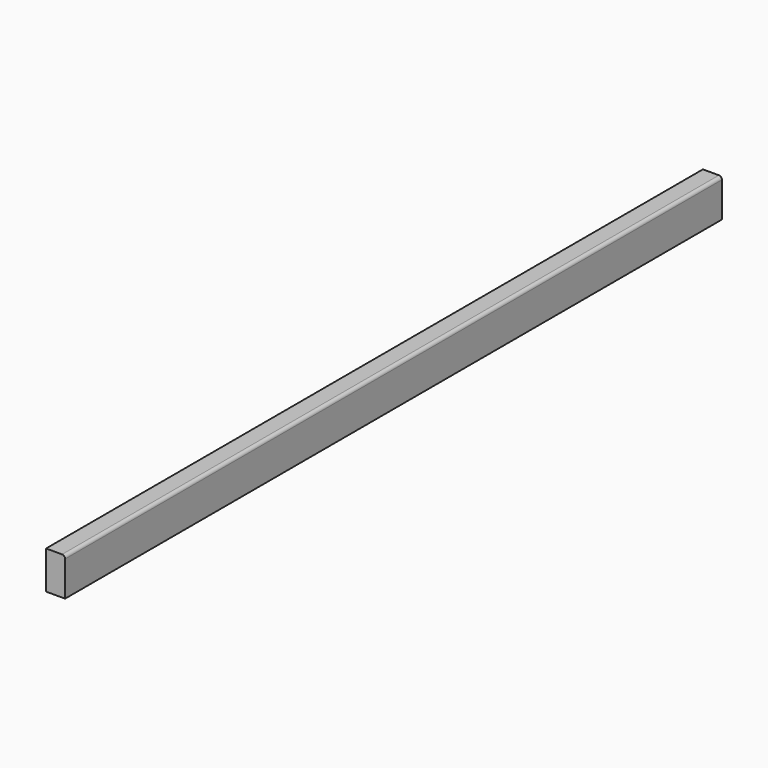
from build123d import *

# Parameters (mm, degrees)
F0_W     = 31.75
F0_H     = 63.5
F1_DEPTH = 1371.6
F2_R     = 5.08


with BuildPart() as f1:
    # F0 (on Front) → F1 (new body)
    with BuildSketch(Plane.XZ):
        with Locations((15.875, 31.75)):
            Rectangle(F0_W, F0_H)
    extrude(amount=-F1_DEPTH)

    # F2
    f2_edges = [f1.edges().sort_by_distance(p)[0] for p in [
        (31.75, 685.8, 63.5),
    ]]
    fillet(f2_edges, radius=F2_R)


solid = f1.part
